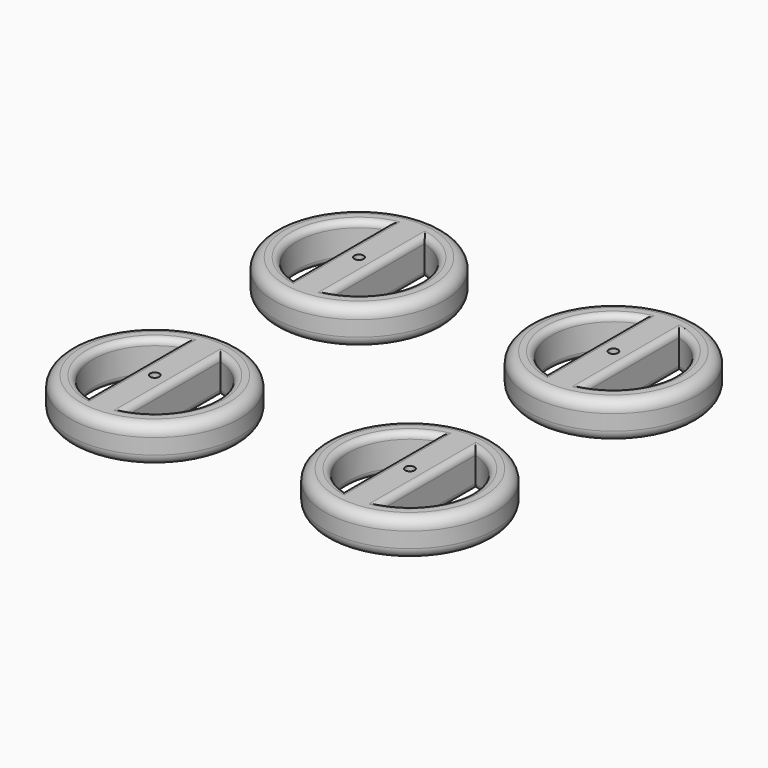
from build123d import *

# Parameters (mm, degrees)
F0_R     = 27.5
F0_R_2   = 1.5
F1_DEPTH = 12
F2_R     = 2
F3_R     = 3.5


with BuildPart() as f1:
    # F0 (on Top) → F1 (new body)
    with BuildSketch(Plane.XY):
        with Locations((-41.0009878764, 41.4561217284)):
            Circle(F0_R)
        with BuildLine():
            ThreePointArc((-35.0066918367, 60.5366986324), (-24.8782411998, 53.2906914124), (-21.0009878764, 41.4561217284))
            ThreePointArc((-21.0009878764, 41.4561217284), (-24.8782411998, 29.6215520445), (-35.0066918367, 22.3755448244))
            ThreePointArc((-35.0066918367, 22.3755448244), (-41.0022400835, 21.4561217676), (-46.9976731525, 22.3762955841))
            ThreePointArc((-46.9976731525, 22.3762955841), (-61.0009878764, 41.4561217284), (-46.9976731525, 60.5359478728))
            ThreePointArc((-46.9976731525, 60.5359478728), (-41.0022400835, 61.4561216892), (-35.0066918367, 60.5366986324))
        make_face(mode=Mode.SUBTRACT)
        with BuildLine():
            Line((-35.0066918367, 41.7176843203), (-35.0066918367, 60.5366986324))
            ThreePointArc((-35.0066918367, 60.5366986324), (-41.0022400835, 61.4561216892), (-46.9976731525, 60.5359478728))
            Line((-46.9976731525, 60.5359478728), (-46.9976731525, 41.6555351158))
            ThreePointArc((-46.9976731525, 41.6555351158), (-41.0320854328, 47.4560411397), (-35.0066918367, 41.7176843203))
        make_face()
        with BuildLine():
            ThreePointArc((-46.9976731525, 22.3762955841), (-41.0022400835, 21.4561217676), (-35.0066918367, 22.3755448244))
            Line((-35.0066918367, 22.3755448244), (-35.0066918367, 41.1945591365))
            ThreePointArc((-35.0066918367, 41.1945591365), (-41.0320854328, 35.4562023171), (-46.9976731525, 41.2567083411))
            Line((-46.9976731525, 41.2567083411), (-46.9976731525, 22.3762955841))
        make_face()
        with BuildLine():
            Line((-35.0066918367, 41.1945591365), (-35.0066918367, 41.7176843203))
            ThreePointArc((-35.0066918367, 41.7176843203), (-41.0320854328, 47.4560411397), (-46.9976731525, 41.6555351158))
            Line((-46.9976731525, 41.6555351158), (-46.9976731525, 41.2567083411))
            ThreePointArc((-46.9976731525, 41.2567083411), (-41.0320854328, 35.4562023171), (-35.0066918367, 41.1945591365))
        make_face()
        with Locations((-41.0009878764, 41.4561217284)):
            Circle(F0_R_2, mode=Mode.SUBTRACT)
    extrude(amount=F1_DEPTH)

    # F2
    f2_edges = [f1.edges().sort_by_distance(p)[0] for p in [
        (-21.000988, 41.456122, 12),
        (-35.006692, 41.456122, 12),
        (-46.997673, 41.456122, 12),
        (-35.006692, 41.456122, 0),
        (-61.000988, 41.456122, 12),
        (-61.000988, 41.456122, 0),
        (-21.000988, 41.456122, 0),
        (-46.997673, 41.456122, 0),
    ]]
    fillet(f2_edges, radius=F2_R)

    # F3
    f3_edges = [f1.edges().sort_by_distance(p)[0] for p in [
        (-68.500988, 41.456122, 0),
        (-68.500988, 41.456122, 12),
    ]]
    fillet(f3_edges, radius=F3_R)


with BuildPart() as f4_1:
    # F4: copy of F1
    add(f1.part.moved(Location((82.4, 0, 0))))


with BuildPart() as f5_1:
    # F5: copy of F1
    add(f1.part.moved(Location((0, -82.7, 0))))


with BuildPart() as f6_1:
    # F6: copy of F4_1
    add(f4_1.part.moved(Location((0, -82.4, 0))))


solid = Compound([f1.part, f4_1.part, f5_1.part, f6_1.part])
